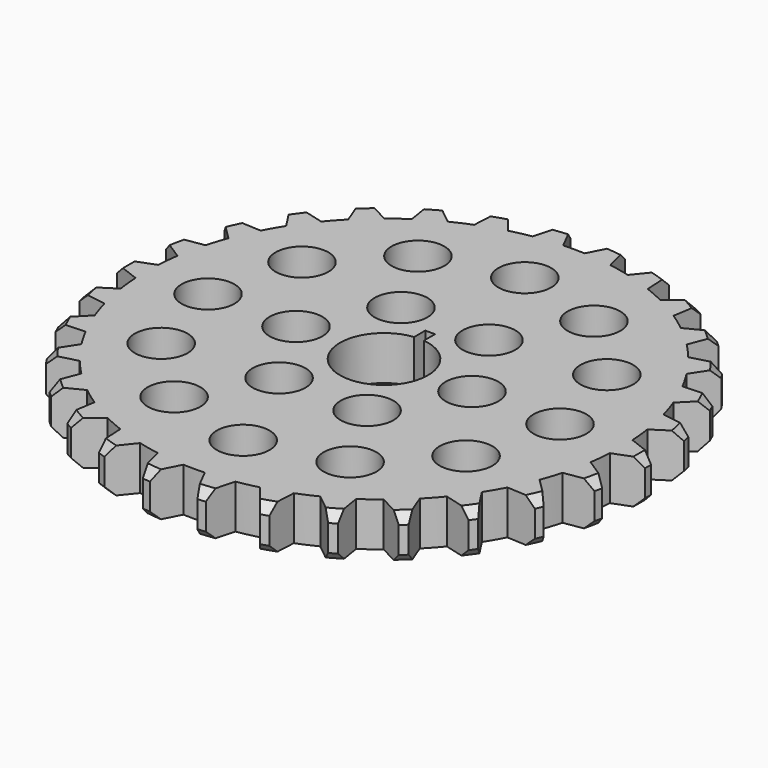
from build123d import *

# Parameters (mm, degrees)
F0_R     = 3.81
F2_DEPTH = 6.35
F3_SIZE  = 1.27


with BuildPart() as f2:
    # F0 (on Top) → F2 (new body)
    with BuildSketch(Plane.XY):
        with BuildLine():
            Line((12.520752, 31.922325), (12.30602, 36.057896))
            ThreePointArc((12.30602, 36.057896), (11.773547, 36.235253), (11.23852, 36.404748))
            Line((11.23852, 36.404748), (8.633971, 33.185217))
            ThreePointArc((8.633971, 33.185217), (7.129292, 33.540681), (5.610119, 33.827957))
            Line((5.610119, 33.827957), (4.540246, 37.82851))
            ThreePointArc((4.540246, 37.82851), (3.982534, 37.891284), (3.423959, 37.945836))
            Line((3.423959, 37.945836), (1.545703, 34.255144))
            ThreePointArc((1.545703, 34.255144), (0, 34.29), (-1.545703, 34.255144))
            Line((-1.545703, 34.255144), (-3.423959, 37.945836))
            ThreePointArc((-3.423959, 37.945836), (-3.982534, 37.891284), (-4.540246, 37.82851))
            Line((-4.540246, 37.82851), (-5.610119, 33.827957))
            ThreePointArc((-5.610119, 33.827957), (-7.129292, 33.540681), (-8.633971, 33.185217))
            Line((-8.633971, 33.185217), (-11.23852, 36.404748))
            ThreePointArc((-11.23852, 36.404748), (-11.773547, 36.235253), (-12.30602, 36.057896))
            Line((-12.30602, 36.057896), (-12.520752, 31.922325))
            ThreePointArc((-12.520752, 31.922325), (-13.946999, 31.325474), (-15.344892, 30.664937))
            Line((-15.344892, 30.664937), (-18.561904, 33.272597))
            ThreePointArc((-18.561904, 33.272597), (-19.05, 32.995568), (-19.533962, 32.711379))
            Line((-19.533962, 32.711379), (-18.884168, 28.621535))
            ThreePointArc((-18.884168, 28.621535), (-20.155156, 27.741193), (-21.385169, 26.804452))
            Line((-21.385169, 26.804452), (-25.074044, 28.686274))
            ThreePointArc((-25.074044, 28.686274), (-25.493876, 28.313818), (-25.908176, 27.935218))
            Line((-25.908176, 27.935218), (-24.422256, 24.069847))
            ThreePointArc((-24.422256, 24.069847), (-25.482436, 22.944488), (-26.49081, 21.772484))
            Line((-26.49081, 21.772484), (-30.490328, 22.846223))
            ThreePointArc((-30.490328, 22.846223), (-30.823547, 22.394618), (-31.150079, 21.938154))
            Line((-31.150079, 21.938154), (-28.892973, 18.46619))
            ThreePointArc((-28.892973, 18.46619), (-29.696011, 17.145), (-30.438677, 15.788954))
            Line((-30.438677, 15.788954), (-34.574038, 16.007683))
            ThreePointArc((-34.574038, 16.007683), (-34.806082, 15.496666), (-35.030574, 14.982287))
            Line((-35.030574, 14.982287), (-32.10093, 12.055473))
            ThreePointArc((-32.10093, 12.055473), (-32.611728, 10.596193), (-33.056227, 9.115371))
            Line((-33.056227, 9.115371), (-37.146697, 8.46953))
            ThreePointArc((-37.146697, 8.46953), (-37.267424, 7.921435), (-37.380064, 7.371622))
            Line((-37.380064, 7.371622), (-33.905921, 5.117873))
            ThreePointArc((-33.905921, 5.117873), (-34.102156, 3.584281), (-34.229061, 2.043402))
            Line((-34.229061, 2.043402), (-38.095866, 0.561218))
            ThreePointArc((-38.095866, 0.561218), (-38.1, 0), (-38.095866, -0.561218))
            Line((-38.095866, -0.561218), (-34.229061, -2.043402))
            ThreePointArc((-34.229061, -2.043402), (-34.102156, -3.584281), (-33.905921, -5.117873))
            Line((-33.905921, -5.117873), (-37.380064, -7.371622))
            ThreePointArc((-37.380064, -7.371622), (-37.267424, -7.921435), (-37.146697, -8.46953))
            Line((-37.146697, -8.46953), (-33.056227, -9.115371))
            ThreePointArc((-33.056227, -9.115371), (-32.611728, -10.596193), (-32.10093, -12.055473))
            Line((-32.10093, -12.055473), (-35.030574, -14.982287))
            ThreePointArc((-35.030574, -14.982287), (-34.806082, -15.496666), (-34.574038, -16.007683))
            Line((-34.574038, -16.007683), (-30.438677, -15.788954))
            ThreePointArc((-30.438677, -15.788954), (-29.696011, -17.145), (-28.892973, -18.46619))
            Line((-28.892973, -18.46619), (-31.150079, -21.938154))
            ThreePointArc((-31.150079, -21.938154), (-30.823547, -22.394618), (-30.490328, -22.846223))
            Line((-30.490328, -22.846223), (-26.49081, -21.772484))
            ThreePointArc((-26.49081, -21.772484), (-25.482436, -22.944488), (-24.422256, -24.069847))
            Line((-24.422256, -24.069847), (-25.908176, -27.935218))
            ThreePointArc((-25.908176, -27.935218), (-25.493876, -28.313818), (-25.074044, -28.686274))
            Line((-25.074044, -28.686274), (-21.385169, -26.804452))
            ThreePointArc((-21.385169, -26.804452), (-20.155156, -27.741193), (-18.884168, -28.621535))
            Line((-18.884168, -28.621535), (-19.533962, -32.711379))
            ThreePointArc((-19.533962, -32.711379), (-19.05, -32.995568), (-18.561904, -33.272597))
            Line((-18.561904, -33.272597), (-15.344892, -30.664937))
            ThreePointArc((-15.344892, -30.664937), (-13.946999, -31.325474), (-12.520752, -31.922325))
            Line((-12.520752, -31.922325), (-12.30602, -36.057896))
            ThreePointArc((-12.30602, -36.057896), (-11.773547, -36.235253), (-11.23852, -36.404748))
            Line((-11.23852, -36.404748), (-8.633971, -33.185217))
            ThreePointArc((-8.633971, -33.185217), (-7.129292, -33.540681), (-5.610119, -33.827957))
            Line((-5.610119, -33.827957), (-4.540246, -37.82851))
            ThreePointArc((-4.540246, -37.82851), (-3.982534, -37.891284), (-3.423959, -37.945836))
            Line((-3.423959, -37.945836), (-1.545703, -34.255144))
            ThreePointArc((-1.545703, -34.255144), (0, -34.29), (1.545703, -34.255144))
            Line((1.545703, -34.255144), (3.423959, -37.945836))
            ThreePointArc((3.423959, -37.945836), (3.982534, -37.891284), (4.540246, -37.82851))
            Line((4.540246, -37.82851), (5.610119, -33.827957))
            ThreePointArc((5.610119, -33.827957), (7.129292, -33.540681), (8.633971, -33.185217))
            Line((8.633971, -33.185217), (11.23852, -36.404748))
            ThreePointArc((11.23852, -36.404748), (11.773547, -36.235253), (12.30602, -36.057896))
            Line((12.30602, -36.057896), (12.520752, -31.922325))
            ThreePointArc((12.520752, -31.922325), (13.946999, -31.325474), (15.344892, -30.664937))
            Line((15.344892, -30.664937), (18.561904, -33.272597))
            ThreePointArc((18.561904, -33.272597), (19.05, -32.995568), (19.533962, -32.711379))
            Line((19.533962, -32.711379), (18.884168, -28.621535))
            ThreePointArc((18.884168, -28.621535), (20.155156, -27.741193), (21.385169, -26.804452))
            Line((21.385169, -26.804452), (25.074044, -28.686274))
            ThreePointArc((25.074044, -28.686274), (25.493876, -28.313818), (25.908176, -27.935218))
            Line((25.908176, -27.935218), (24.422256, -24.069847))
            ThreePointArc((24.422256, -24.069847), (25.482436, -22.944488), (26.49081, -21.772484))
            Line((26.49081, -21.772484), (30.490328, -22.846223))
            ThreePointArc((30.490328, -22.846223), (30.823547, -22.394618), (31.150079, -21.938154))
            Line((31.150079, -21.938154), (28.892973, -18.46619))
            ThreePointArc((28.892973, -18.46619), (29.696011, -17.145), (30.438677, -15.788954))
            Line((30.438677, -15.788954), (34.574038, -16.007683))
            ThreePointArc((34.574038, -16.007683), (34.806082, -15.496666), (35.030574, -14.982287))
            Line((35.030574, -14.982287), (32.10093, -12.055473))
            ThreePointArc((32.10093, -12.055473), (32.611728, -10.596193), (33.056227, -9.115371))
            Line((33.056227, -9.115371), (37.146697, -8.46953))
            ThreePointArc((37.146697, -8.46953), (37.267424, -7.921435), (37.380064, -7.371622))
            Line((37.380064, -7.371622), (33.905921, -5.117873))
            ThreePointArc((33.905921, -5.117873), (34.102156, -3.584281), (34.229061, -2.043402))
            Line((34.229061, -2.043402), (38.095866, -0.561218))
            ThreePointArc((38.095866, -0.561218), (38.1, 0), (38.095866, 0.561218))
            Line((38.095866, 0.561218), (34.229061, 2.043402))
            ThreePointArc((34.229061, 2.043402), (34.102156, 3.584281), (33.905921, 5.117873))
            Line((33.905921, 5.117873), (37.380064, 7.371622))
            ThreePointArc((37.380064, 7.371622), (37.267424, 7.921435), (37.146697, 8.46953))
            Line((37.146697, 8.46953), (33.056227, 9.115371))
            ThreePointArc((33.056227, 9.115371), (32.611728, 10.596193), (32.10093, 12.055473))
            Line((32.10093, 12.055473), (35.030574, 14.982287))
            ThreePointArc((35.030574, 14.982287), (34.806082, 15.496666), (34.574038, 16.007683))
            Line((34.574038, 16.007683), (30.438677, 15.788954))
            ThreePointArc((30.438677, 15.788954), (29.696011, 17.145), (28.892973, 18.46619))
            Line((28.892973, 18.46619), (31.150079, 21.938154))
            ThreePointArc((31.150079, 21.938154), (30.823547, 22.394618), (30.490328, 22.846223))
            Line((30.490328, 22.846223), (26.49081, 21.772484))
            ThreePointArc((26.49081, 21.772484), (25.482436, 22.944488), (24.422256, 24.069847))
            Line((24.422256, 24.069847), (25.908176, 27.935218))
            ThreePointArc((25.908176, 27.935218), (25.493876, 28.313818), (25.074044, 28.686274))
            Line((25.074044, 28.686274), (21.385169, 26.804452))
            ThreePointArc((21.385169, 26.804452), (20.155156, 27.741193), (18.884168, 28.621535))
            Line((18.884168, 28.621535), (19.533962, 32.711379))
            ThreePointArc((19.533962, 32.711379), (19.05, 32.995568), (18.561904, 33.272597))
            Line((18.561904, 33.272597), (15.344892, 30.664937))
            ThreePointArc((15.344892, 30.664937), (13.946999, 31.325474), (12.520752, 31.922325))
        make_face()
        with Locations((-12.7, -21.997045)):
            Circle(F0_R, mode=Mode.SUBTRACT)
        with Locations((-21.997045, -12.7)):
            Circle(F0_R, mode=Mode.SUBTRACT)
        with Locations((-6.35, -10.998523)):
            Circle(F0_R, mode=Mode.SUBTRACT)
        with Locations((0, -25.4)):
            Circle(F0_R, mode=Mode.SUBTRACT)
        with Locations((12.7, -21.997045)):
            Circle(F0_R, mode=Mode.SUBTRACT)
        with Locations((6.35, -10.998523)):
            Circle(F0_R, mode=Mode.SUBTRACT)
        with Locations((21.997045, -12.7)):
            Circle(F0_R, mode=Mode.SUBTRACT)
        with Locations((-25.4, 0)):
            Circle(F0_R, mode=Mode.SUBTRACT)
        with Locations((-21.997045, 12.7)):
            Circle(F0_R, mode=Mode.SUBTRACT)
        with Locations((-12.7, 0)):
            Circle(F0_R, mode=Mode.SUBTRACT)
        with Locations((-6.35, 10.998523)):
            Circle(F0_R, mode=Mode.SUBTRACT)
        with Locations((-12.7, 21.997045)):
            Circle(F0_R, mode=Mode.SUBTRACT)
        with BuildLine():
            ThreePointArc((0.702387, 6.311034), (0, -6.35), (-0.702387, 6.311034))
            Line((-0.702387, 6.311034), (-0.702387, 8.330019))
            Line((-0.702387, 8.330019), (0.702387, 8.330019))
            Line((0.702387, 8.330019), (0.702387, 6.311034))
        make_face(mode=Mode.SUBTRACT)
        with Locations((12.7, 0)):
            Circle(F0_R, mode=Mode.SUBTRACT)
        with Locations((6.35, 10.998523)):
            Circle(F0_R, mode=Mode.SUBTRACT)
        with Locations((25.4, 0)):
            Circle(F0_R, mode=Mode.SUBTRACT)
        with Locations((21.997045, 12.7)):
            Circle(F0_R, mode=Mode.SUBTRACT)
        with Locations((0, 25.4)):
            Circle(F0_R, mode=Mode.SUBTRACT)
        with Locations((12.7, 21.997045)):
            Circle(F0_R, mode=Mode.SUBTRACT)
    extrude(amount=F2_DEPTH)

    # F3
    f3_edges = [f2.edges().sort_by_distance(p)[0] for p in [
        (3.982534, 37.891284, 0),
        (-3.982534, 37.891284, 0),
        (-11.773547, 36.235253, 0),
        (-19.05, 32.995568, 0),
        (-25.493876, 28.313818, 0),
        (-30.823547, 22.394618, 0),
        (-34.806082, 15.496666, 0),
        (-37.267424, 7.921435, 0),
        (-38.1, 0, 0),
        (-37.267424, -7.921435, 0),
        (-34.806082, -15.496666, 0),
        (-30.823547, -22.394618, 0),
        (-25.493876, -28.313818, 0),
        (-19.05, -32.995568, 0),
        (-11.773547, -36.235253, 0),
        (-3.982534, -37.891284, 0),
        (3.982534, -37.891284, 0),
        (11.773547, -36.235253, 0),
        (19.05, -32.995568, 0),
        (25.493876, -28.313818, 0),
        (30.823547, -22.394618, 0),
        (34.806082, -15.496666, 0),
        (37.267424, -7.921435, 0),
        (38.1, 0, 0),
        (37.267424, 7.921435, 0),
        (34.806082, 15.496666, 0),
        (30.823547, 22.394618, 0),
        (25.493876, 28.313818, 0),
        (19.05, 32.995568, 0),
        (11.773547, 36.235253, 0),
        (-11.773547, 36.235253, 6.35),
        (-3.982534, 37.891284, 6.35),
        (3.982534, 37.891284, 6.35),
        (11.773547, 36.235253, 6.35),
        (19.05, 32.995568, 6.35),
        (25.493876, 28.313818, 6.35),
        (30.823547, 22.394618, 6.35),
        (34.806082, 15.496666, 6.35),
        (37.267424, 7.921435, 6.35),
        (37.267424, -7.921435, 6.35),
        (38.1, 0, 6.35),
        (34.806082, -15.496666, 6.35),
        (30.823547, -22.394618, 6.35),
        (25.493876, -28.313818, 6.35),
        (19.05, -32.995568, 6.35),
        (11.773547, -36.235253, 6.35),
        (3.982534, -37.891284, 6.35),
        (-3.982534, -37.891284, 6.35),
        (-19.05, -32.995568, 6.35),
        (-11.773547, -36.235253, 6.35),
        (-25.493876, -28.313818, 6.35),
        (-30.823547, -22.394618, 6.35),
        (-34.806082, -15.496666, 6.35),
        (-37.267424, -7.921435, 6.35),
        (-38.1, 0, 6.35),
        (-37.267424, 7.921435, 6.35),
        (-34.806082, 15.496666, 6.35),
        (-30.823547, 22.394618, 6.35),
        (-25.493876, 28.313818, 6.35),
        (-19.05, 32.995568, 6.35),
    ]]
    chamfer(f3_edges, length=F3_SIZE)


solid = f2.part
